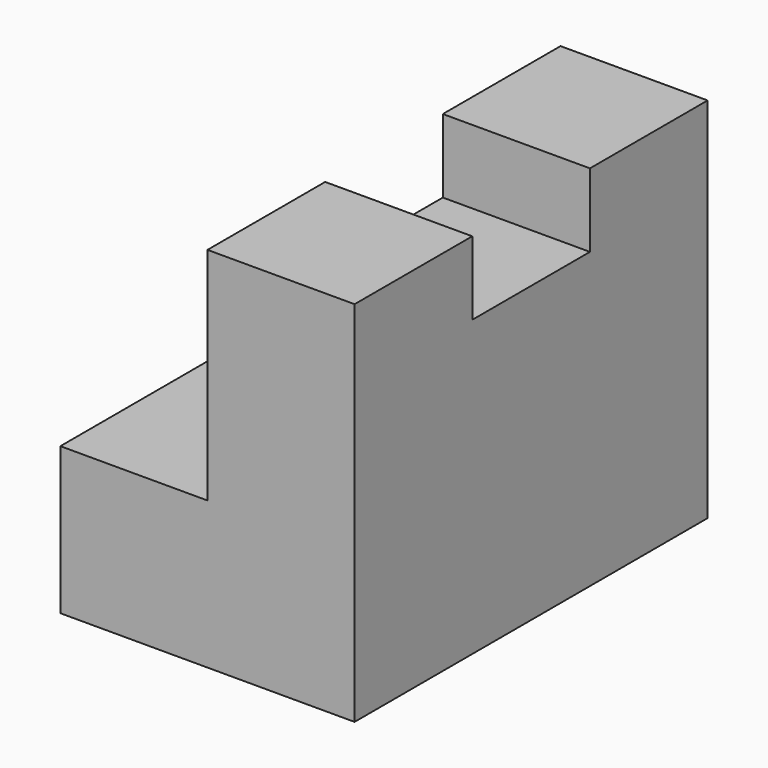
from build123d import *

# Parameters (mm, degrees)
F1_DEPTH = 38.1
F2_W     = 12.7
F2_H     = 6.35
F3_DEPTH = 12.7


with BuildPart() as f1:
    # F0 (on Front) → F1 (new body)
    with BuildSketch(Plane.XZ):
        Polygon((-25.4, 0), (0, 0), (0, 31.75), (-12.7, 31.75), (-12.7, 12.7), (-25.4, 12.7), align=None)
    extrude(amount=F1_DEPTH)

    # F2 (on face) → F3 (cut)
    with BuildSketch(Plane.YZ):
        with Locations((-19.05, 28.575)):
            Rectangle(F2_W, F2_H)
    extrude(amount=-F3_DEPTH, mode=Mode.SUBTRACT)


solid = f1.part
